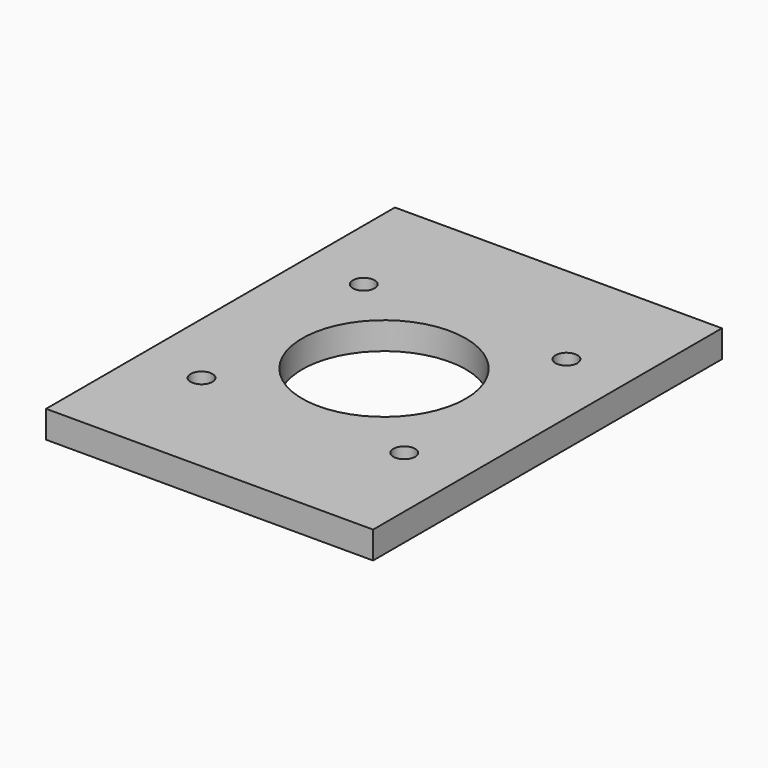
from build123d import *

# Parameters (mm, degrees)
F0_W     = 76.2
F0_H     = 101.6
F0_R     = 2.54
F0_R_2   = 19.05
F1_DEPTH = 6.35


with BuildPart() as f1:
    # F0 (on Top) → F1 (new body)
    with BuildSketch(Plane.XY):
        Rectangle(F0_W, F0_H)
        with Locations((-23.622, -23.622)):
            Circle(F0_R, mode=Mode.SUBTRACT)
        Circle(F0_R_2, mode=Mode.SUBTRACT)
        with Locations((23.622, -23.622)):
            Circle(F0_R, mode=Mode.SUBTRACT)
        with Locations((-23.622, 23.622)):
            Circle(F0_R, mode=Mode.SUBTRACT)
        with Locations((23.622, 23.622)):
            Circle(F0_R, mode=Mode.SUBTRACT)
    extrude(amount=F1_DEPTH)


solid = f1.part
